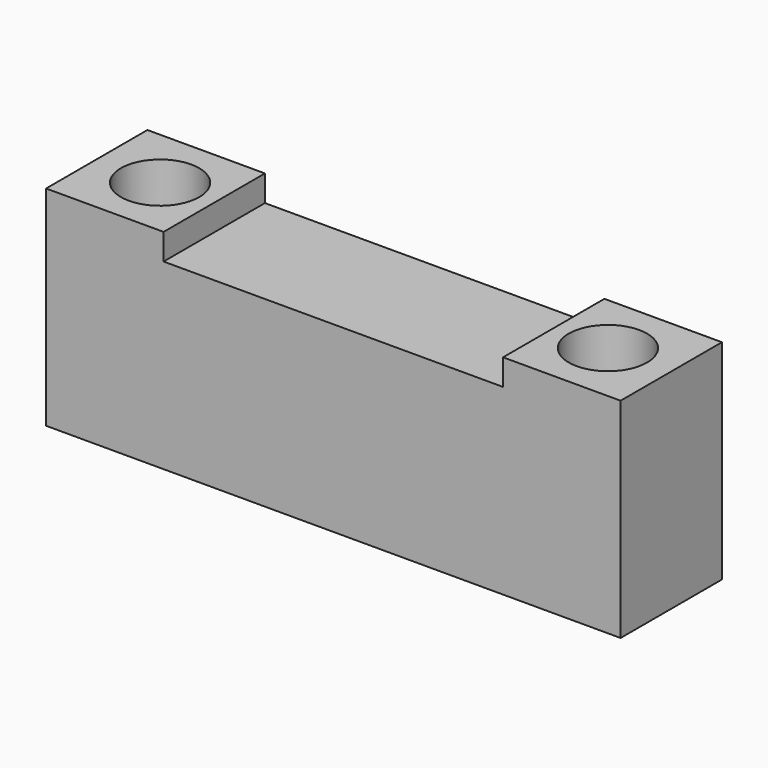
from build123d import *

# Parameters (mm, degrees)
F1_DEPTH = 4.85
F2_R     = 1.5
F3_DEPTH = 10


with BuildPart() as f1:
    # F0 (on Front) → F1 (new body)
    with BuildSketch(Plane.XZ):
        Polygon((-11, 8), (-11, 0), (11, 0), (11, 8), (6.5, 8), (6.5, 7), (-6.5, 7), (-6.5, 8), align=None)
    extrude(amount=F1_DEPTH)

    # F2 (on face) → F3 (cut)
    with BuildSketch(Plane(origin=(0, 0, 0), x_dir=(1, 0, 0), z_dir=(0, 0, -1))):
        with Locations((-8.575, 2.425)):
            Circle(F2_R)
        with Locations((8.575, 2.425)):
            Circle(F2_R)
    extrude(amount=-F3_DEPTH, mode=Mode.SUBTRACT)


solid = f1.part
